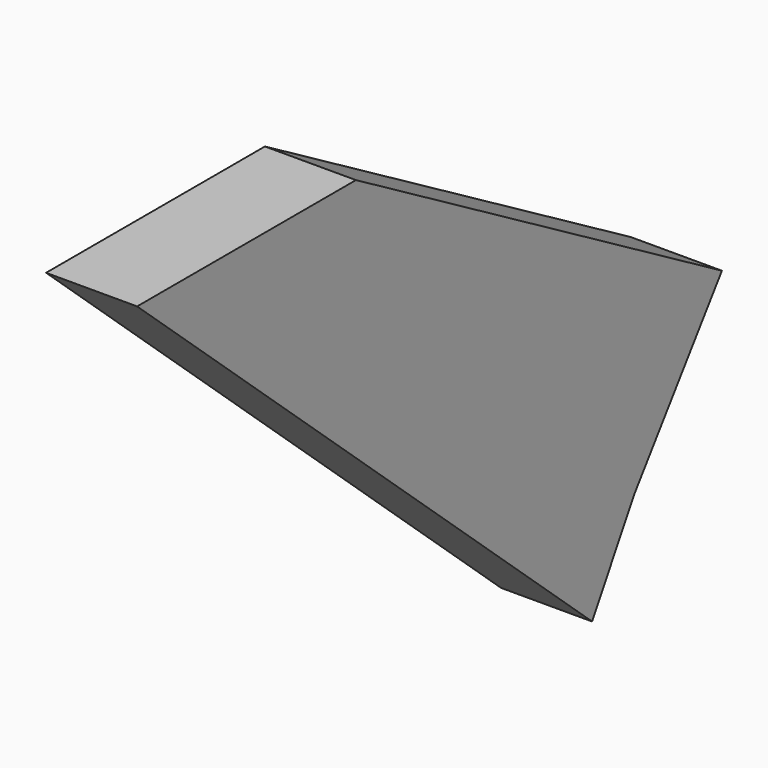
from build123d import *

# Parameters (mm, degrees)
F1_DEPTH = 25.4


with BuildPart() as f1:
    # F0 (on Right) → F1 (new body)
    with BuildSketch(Plane.YZ):
        Polygon((127.646804, -74.149996), (0, 0), (-76.320149, 0), align=None)
        Polygon((96.973807, -116.791584), (127.646804, -74.149996), (-76.320149, 0), (82.375811, -141.921558), align=None)
    extrude(amount=F1_DEPTH)


solid = f1.part
